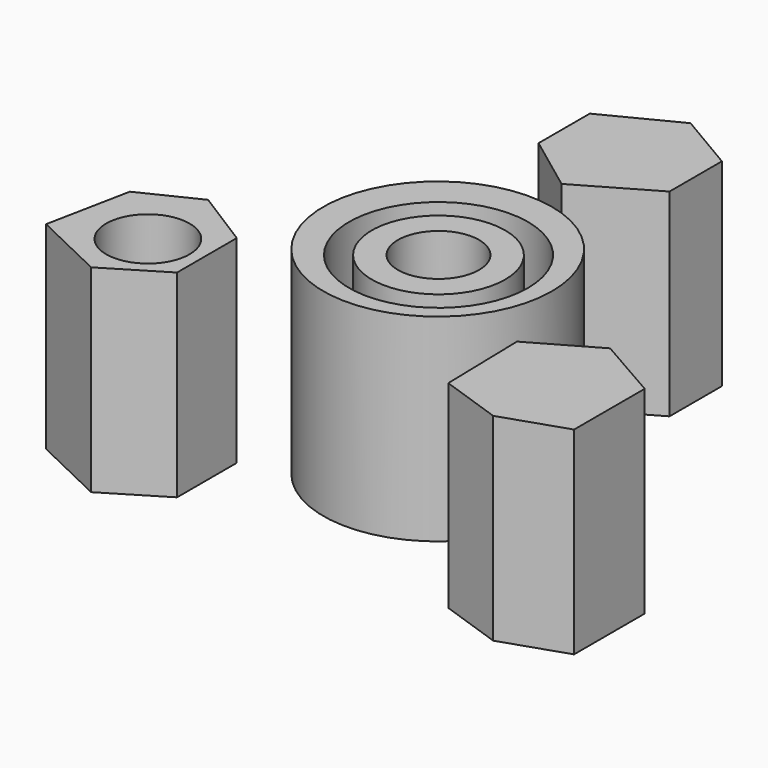
from build123d import *

# Parameters (mm, degrees)
F0_R     = 14.67063
F0_R_2   = 11.481774
F0_R_3   = 8.559739
F0_R_4   = 5.211898
F0_R_5   = 6.66613
F0_R_6   = 5.352451
F1_DEPTH = 25.4


with BuildPart() as f1:
    # F0 (on Top) → F1 (new body)
    with BuildSketch(Plane.XY):
        with Locations((-0.868059, 0.950112)):
            Circle(F0_R)
        Circle(F0_R_2, mode=Mode.SUBTRACT)
        Circle(F0_R_3)
        Circle(F0_R_4, mode=Mode.SUBTRACT)
        Polygon((26.092054, -5.081055), (17.884195, -9.77126), (18.141111, -21.105921), (26.092054, -23.841875), (34.280233, -21.105921), (34.280233, -9.77126), align=None)
        with Locations((25.310345, -15.475084)):
            Circle(F0_R_5, mode=Mode.SUBTRACT)
        with Locations((25.310345, -15.475084)):
            Circle(F0_R_5)
        Polygon((-25.500201, -5.081055), (-32.730933, -8.598709), (-34.880608, -19.347094), (-25.500201, -23.841875), (-18.074045, -19.347094), (-18.074045, -9.77126), align=None)
        with Locations((-24.913926, -15.475084)):
            Circle(F0_R_6, mode=Mode.SUBTRACT)
        Polygon((1.859325, 38.107913), (-7.32566, 33.417709), (-7.32566, 25.209852), (0, 19.737946), (9.480905, 25.209852), (9.480905, 33.613134), align=None)
    extrude(amount=F1_DEPTH)


solid = f1.part
